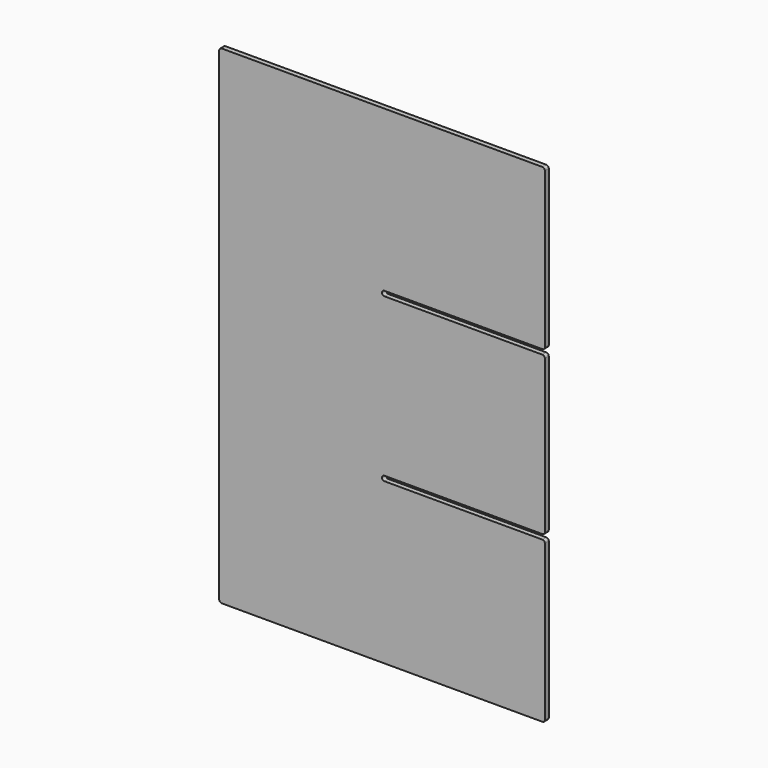
from build123d import *

# Parameters (mm, degrees)
F1_DEPTH = 6


with BuildPart() as f1:
    # F0 (on Front) → F1 (new body)
    with BuildSketch(Plane.XZ):
        with BuildLine():
            Line((-109.664015, 330.587179), (-503.664015, 330.587179))
            ThreePointArc((-503.664015, 330.587179), (-505.785335, 329.708499), (-506.664015, 327.587179))
            Line((-506.664015, 327.587179), (-506.664015, -266.412821))
            ThreePointArc((-506.664015, -266.412821), (-505.785335, -268.534142), (-503.664015, -269.412821))
            Line((-503.664015, -269.412821), (-109.664015, -269.412821))
            ThreePointArc((-109.664015, -269.412821), (-107.542694, -268.534142), (-106.664015, -266.412821))
            Line((-106.664015, -266.412821), (-106.664015, -75.412821))
            ThreePointArc((-106.664015, -75.412821), (-107.542694, -73.291501), (-109.664015, -72.412821))
            Line((-109.664015, -72.412821), (-303.664015, -72.412821))
            ThreePointArc((-303.664015, -72.412821), (-305.785335, -71.534142), (-306.664015, -69.412821))
            ThreePointArc((-306.664015, -69.412821), (-305.785335, -67.291501), (-303.664015, -66.412821))
            Line((-303.664015, -66.412821), (-109.664015, -66.412821))
            ThreePointArc((-109.664015, -66.412821), (-107.542694, -65.534142), (-106.664015, -63.412821))
            Line((-106.664015, -63.412821), (-106.664015, 124.587179))
            ThreePointArc((-106.664015, 124.587179), (-107.542694, 126.708499), (-109.664015, 127.587179))
            Line((-109.664015, 127.587179), (-303.664015, 127.587179))
            ThreePointArc((-303.664015, 127.587179), (-305.785335, 128.465858), (-306.664015, 130.587179))
            ThreePointArc((-306.664015, 130.587179), (-305.785335, 132.708499), (-303.664015, 133.587179))
            Line((-303.664015, 133.587179), (-109.664015, 133.587179))
            ThreePointArc((-109.664015, 133.587179), (-107.542694, 134.465858), (-106.664015, 136.587179))
            Line((-106.664015, 136.587179), (-106.664015, 327.587179))
            ThreePointArc((-106.664015, 327.587179), (-107.542694, 329.708499), (-109.664015, 330.587179))
        make_face()
    extrude(amount=F1_DEPTH)


solid = f1.part
